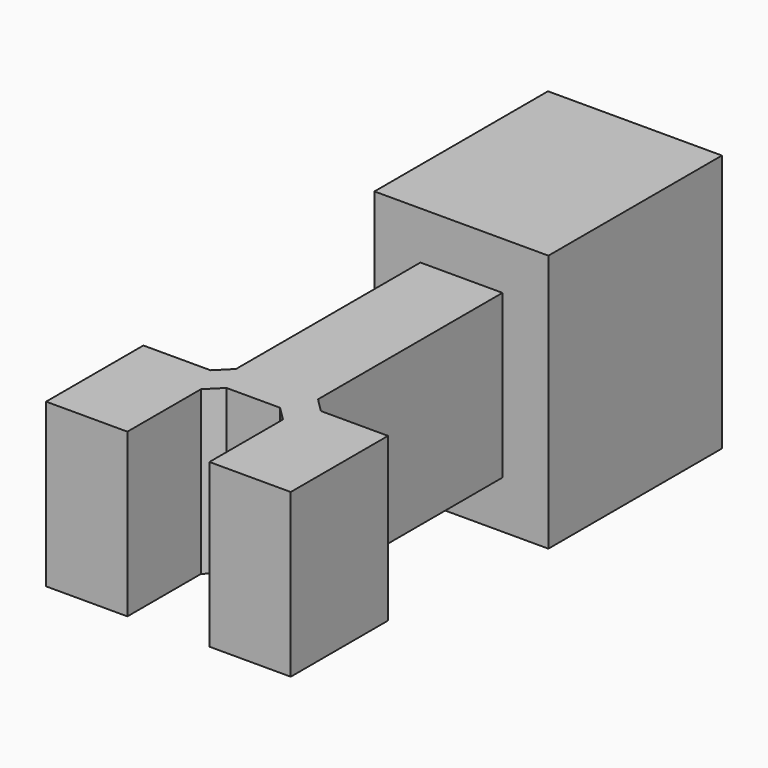
from build123d import *

# Parameters (mm, degrees)
F1_DEPTH = 58.42
F3_DEPTH = 31.242
F4_W     = 12.51252
F4_H     = 17.674709
F5_DEPTH = 25.4
F6_SIZE  = 5.08


with BuildPart() as f1:
    # F0 (on Top) → F1 (new body)
    with BuildSketch(Plane.XY):
        Polygon((-43.942, 0), (-43.942, -43.688), (-14.732, -43.688), (-14.732, -5.588), (0, -5.588), (14.732, -5.588), (14.732, -43.688), (43.942, -43.688), (43.942, 0), (14.732, 0), (14.732, 87.884), (0, 87.884), (-14.732, 87.884), (-14.732, 0), align=None)
    extrude(amount=F1_DEPTH)

    # F2 (on Right) → F3 (join, symmetric)
    with BuildSketch(Plane.YZ):
        Polygon((87.884, 75.542652), (87.884, 58.42), (87.884, 54.577157), (87.884, 0), (87.884, -17.122652), (165.792628, -17.122652), (165.792628, 75.542652), align=None)
    extrude(amount=F3_DEPTH, both=True)

    # F4 (on face) → F5 (cut)
    with BuildSketch(Plane(origin=(-31.242, 0, 0), x_dir=(0, -1, 0), z_dir=(-1, 0, 0))):
        with Locations((-150.845341, 2.069356)):
            Rectangle(F4_W, F4_H)
        Polygon((-135.569647, 44.218883), (-135.569647, 29.21), (-135.569647, 14.201117), (-124.647684, 14.201117), (-124.647684, 0), (-99.536583, 0), (-99.536583, 21.531122), (-109.823912, 21.531122), (-109.823912, 29.21), (-109.823912, 36.888878), (-99.536583, 36.888878), (-99.536583, 58.42), (-124.647684, 58.42), (-124.647684, 44.218883), align=None)
        with Locations((-150.845341, 56.350644)):
            Rectangle(F4_W, F4_H)
    extrude(amount=-F5_DEPTH, mode=Mode.SUBTRACT)

    # F6
    f6_edges = [f1.edges().sort_by_distance(p)[0] for p in [
        (14.732, -5.588, 29.21),
        (-14.732, -5.588, 29.21),
        (-14.732, 0, 29.21),
        (14.732, 0, 29.21),
    ]]
    chamfer(f6_edges, length=F6_SIZE)


solid = f1.part
